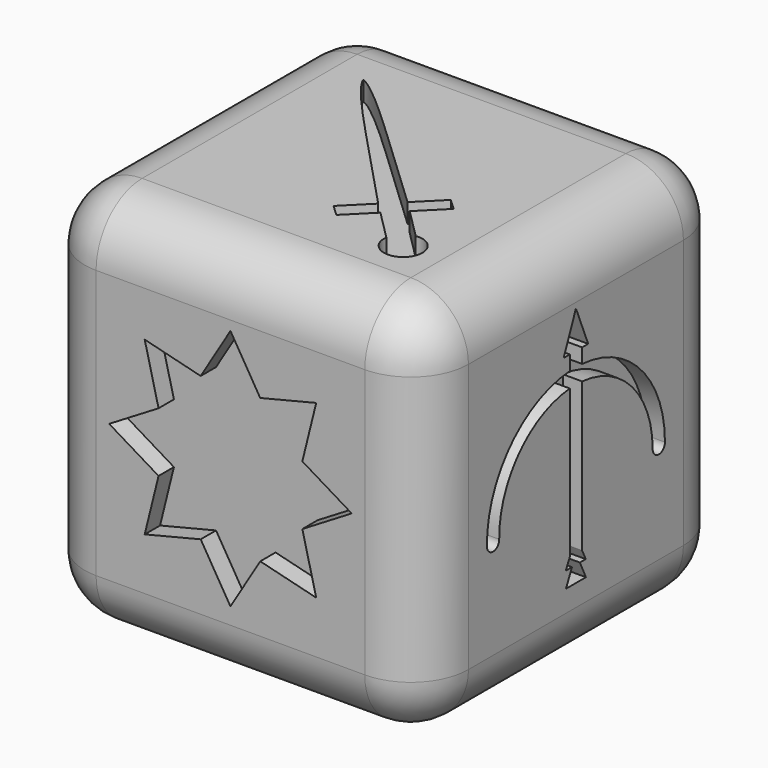
from build123d import *

# Parameters (mm, degrees)
F0_W     = 20
F0_H     = 20
F1_DEPTH = 10
F2_R     = 3
F4_DEPTH = 1
F6_DEPTH = 1
F8_DEPTH = 1


with BuildPart() as f1:
    # F0 (on Front) → F1 (new body, symmetric)
    with BuildSketch(Plane.XZ):
        Rectangle(F0_W, F0_H)
    extrude(amount=F1_DEPTH, both=True)

    # F2
    f2_edges = [f1.edges().sort_by_distance(p)[0] for p in [
        (0, -10, 10),
        (10, 0, 10),
        (10, 0, -10),
        (10, 10, 0),
        (10, -10, 0),
        (0, -10, -10),
        (-10, -10, 0),
        (-10, 0, -10),
        (-10, 10, 0),
        (-10, 0, 10),
        (0, 10, 10),
        (0, 10, -10),
    ]]
    fillet(f2_edges, radius=F2_R)

    # F3 (on face) → F4 (cut)
    with BuildSketch(Plane.XZ.offset(10)):
        Polygon((1.5514445915, 3.9282802226), (0, 6.5010534599), (-1.5514445915, 3.9282802226), (-4.4677069853, 4.6504686339), (-3.745518574, 1.73420624), (-6.3182918114, 0.1827616486), (-3.745518574, -1.3686829429), (-4.4677069853, -4.2849453368), (-1.5514445915, -3.5627569255), (0, -6.1355301628), (1.5514445915, -3.5627569255), (4.4677069853, -4.2849453368), (3.745518574, -1.3686829429), (6.3182918114, 0.1827616486), (3.745518574, 1.73420624), (4.4677069853, 4.6504686339), align=None)
    extrude(amount=-F4_DEPTH, mode=Mode.SUBTRACT)

    # F5 (on face) → F6 (cut)
    with BuildSketch(Plane.YZ.offset(10)):
        with BuildLine():
            ThreePointArc((-0.3972897799, 4.0106111269), (-4.2636044951, 2.1552068742), (-5.7970421051, -1.849725524))
            ThreePointArc((-5.7970421051, -1.849725524), (-5.3918043168, -2.2444182335), (-4.9971116073, -1.8391804452))
            ThreePointArc((-4.9971116073, -1.8391804452), (-3.6938417401, 1.5928485864), (-0.3972897799, 3.2084230334))
            Line((-0.3972897799, 3.2084230334), (-0.3972897799, 4.0106111269))
        make_face()
        with BuildLine():
            Line((-0.3972897799, 4.7692186199), (-0.3972897799, 4.0106111269))
            ThreePointArc((-0.3972897799, 4.0106111269), (0.0027166939, 4.0242390941), (0.4027102201, 4.0102362518))
            Line((0.4027102201, 4.0102362518), (0.4027102201, 4.7692186199))
            Line((0.4027102201, 4.7692186199), (-0.3972897799, 4.7692186199))
        make_face()
        with BuildLine():
            ThreePointArc((0.4027102201, 4.0102362518), (0.0027166939, 4.0242390941), (-0.3972897799, 4.0106111269))
            Line((-0.3972897799, 4.0106111269), (-0.3972897799, 3.2084230334))
            ThreePointArc((-0.3972897799, 3.2084230334), (0.0027189433, 3.224238991), (0.4027102201, 3.2079877888))
            Line((0.4027102201, 3.2079877888), (0.4027102201, 4.0102362518))
        make_face()
        with BuildLine():
            ThreePointArc((5.7975457828, -1.7733060522), (4.2394733188, 2.1812360304), (0.4027102201, 4.0102362518))
            Line((0.4027102201, 4.0102362518), (0.4027102201, 3.2079877888))
            ThreePointArc((0.4027102201, 3.2079877888), (3.6734198381, 1.6151228676), (4.9975457828, -1.7733060522))
            ThreePointArc((4.9975457828, -1.7733060522), (5.3975457828, -2.1733060522), (5.7975457828, -1.7733060522))
        make_face()
        Polygon((-0.7970554871, 4.7692186199), (-0.3972897799, 4.7692186199), (0.4027102201, 4.7692186199), (0.7970554871, 4.7692186199), (0, 6.718759425), align=None)
        with BuildLine():
            ThreePointArc((0.4027102201, 3.2079877888), (0.0027189433, 3.224238991), (-0.3972897799, 3.2084230334))
            Line((-0.3972897799, 3.2084230334), (-0.3972897799, -4.5119822188))
            Line((-0.3972897799, -4.5119822188), (0, -3.7174872123))
            Line((0, -3.7174872123), (0.4027102201, -4.5496343811))
            Line((0.4027102201, -4.5496343811), (0.4027102201, 3.2079877888))
        make_face()
        Polygon((0, -3.7174872123), (-0.3972897799, -4.5119822188), (-0.6620978093, -5.0415419197), (-0.2579830259, -5.0415419197), (0, -4.4945096597), (0.2579830259, -5.0415419197), (0.6407644978, -5.0415419197), (0.4027102201, -4.5496343811), align=None)
        Polygon((0.2579830259, -5.0415419197), (-0.2579830259, -5.0415419197), (-0.6514311535, -5.8758170344), (0.6514311535, -5.8758170344), align=None)
        Polygon((0, -4.4945096597), (-0.2579830259, -5.0415419197), (0.2579830259, -5.0415419197), align=None)
    extrude(amount=-F6_DEPTH, mode=Mode.SUBTRACT)

    # F7 (on face) → F8 (cut)
    with BuildSketch(Plane.XY.offset(10)):
        with BuildLine():
            add(Edge.make_bspline(
                [(-5.4, 5.4), (-4.435118036, 5.0849730425), (-0.0419186137, 0.6489528576), (2.7372583002, -1.8887301628)],
                knots=[0, 0, 0, 0, 10.9243105059, 10.9243105059, 10.9243105059, 10.9243105059], degree=3))
            Line((-5.4, 5.4), (2.3129942315, -2.3129942315))
            Line((2.3129942315, -2.3129942315), (2.7372583002, -1.8887301628))
        make_face()
        with BuildLine():
            Line((2.3129942315, -2.3129942315), (-5.4, 5.4))
            add(Edge.make_bspline(
                [(-5.4, 5.4), (-5.0849730425, 4.435118036), (-0.6489528576, 0.0419186137), (1.8887301628, -2.7372583002)],
                knots=[0, 0, 0, 0, 10.9243105059, 10.9243105059, 10.9243105059, 10.9243105059], degree=3))
            Line((1.8887301628, -2.7372583002), (2.3129942315, -2.3129942315))
        make_face()
        Polygon((2.7372583002, -1.8887301628), (2.3129942315, -2.3129942315), (2.8786796564, -2.8786796564), (3.3029437252, -2.4544155877), (4.5757359313, -1.1816233816), (3.9882933746, -0.6376950884), align=None)
        Polygon((2.8786796564, -2.8786796564), (2.3129942315, -2.3129942315), (1.8887301628, -2.7372583002), (0.5941808249, -4.0318076381), (1.1816233816, -4.5757359313), (2.4544155877, -3.3029437252), align=None)
        with BuildLine():
            Line((3.3029437252, -2.4544155877), (2.8786796564, -2.8786796564))
            Line((2.8786796564, -2.8786796564), (4.2928932188, -4.2928932188))
            ThreePointArc((4.2928932188, -4.2928932188), (4.5527864045, -4.105572809), (4.8585786438, -4.0100505063))
            Line((4.8585786438, -4.0100505063), (3.3029437252, -2.4544155877))
        make_face()
        with BuildLine():
            Line((4.2928932188, -4.2928932188), (2.8786796564, -2.8786796564))
            Line((2.8786796564, -2.8786796564), (2.4544155877, -3.3029437252))
            Line((2.4544155877, -3.3029437252), (4.0100505063, -4.8585786438))
            ThreePointArc((4.0100505063, -4.8585786438), (4.105572809, -4.5527864045), (4.2928932188, -4.2928932188))
        make_face()
        with BuildLine():
            ThreePointArc((4.8585786438, -4.0100505063), (4.5527864045, -4.105572809), (4.2928932188, -4.2928932188))
            Line((4.2928932188, -4.2928932188), (4.4343145751, -4.4343145751))
            Line((4.4343145751, -4.4343145751), (4.8585786438, -4.0100505063))
        make_face()
        with BuildLine():
            Line((4.4343145751, -4.4343145751), (4.2928932188, -4.2928932188))
            ThreePointArc((4.2928932188, -4.2928932188), (4.105572809, -4.5527864045), (4.0100505063, -4.8585786438))
            Line((4.0100505063, -4.8585786438), (4.4343145751, -4.4343145751))
        make_face()
        with BuildLine():
            Line((4.8585786438, -4.0100505063), (4.4343145751, -4.4343145751))
            Line((4.4343145751, -4.4343145751), (4.0100505063, -4.8585786438))
            ThreePointArc((4.0100505063, -4.8585786438), (4.9291109799, -5.9974842088), (6, -5))
            ThreePointArc((6, -5), (5.6552017414, -4.244546045), (4.8585786438, -4.0100505063))
        make_face()
    extrude(amount=-F8_DEPTH, mode=Mode.SUBTRACT)


solid = f1.part
